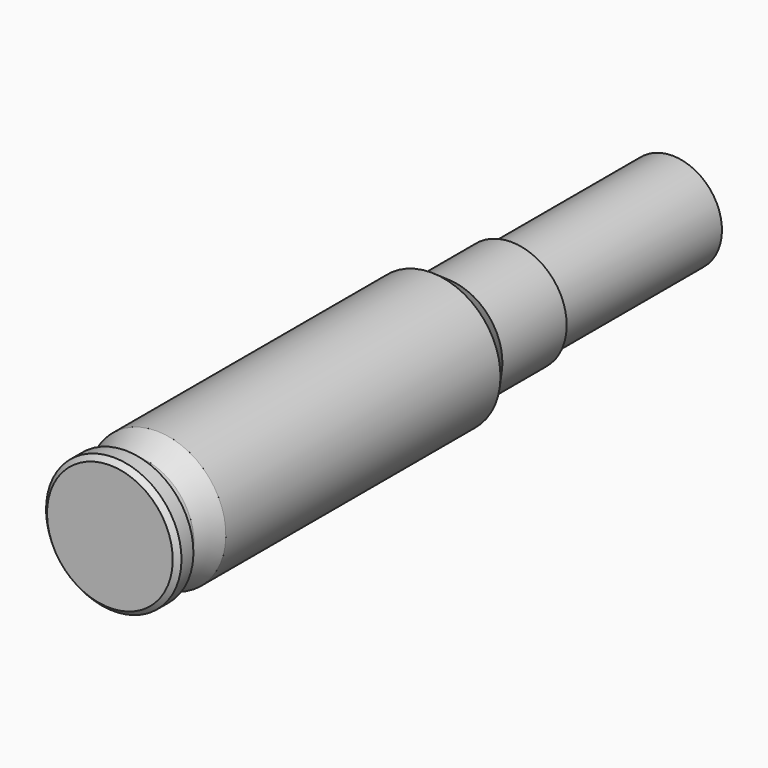
from build123d import *

# Parameters (mm, degrees)
F0_W   = 0.79
F0_H   = 3.3
F0_W_2 = 11.6
F0_H_2 = 2.85


with BuildPart() as f1:
    # F0 (on Right) → F1 (revolve)
    with BuildSketch(Plane.YZ):
        Polygon((0, 3.62), (0, 0), (0.28, 0), (1.14, 0), (1.14, 3.3), (1.14, 3.9), (0.28, 3.9), align=None)
        with Locations((1.535, 1.65)):
            Rectangle(F0_W, F0_H)
        Polygon((1.93, 3.3), (1.93, 0), (3.38, 0), (23.15, 0), (23.15, 3.975), (3.38, 3.975), align=None)
        Polygon((23.15, 3.975), (23.15, 0), (24.27, 0), (28.9, 0), (28.9, 2.85), (28.9, 3.19), (24.27, 3.19), align=None)
        with Locations((34.7, 1.425)):
            Rectangle(F0_W_2, F0_H_2)
    revolve(axis=Axis((0, 13.265, 0), (0, 1, 0)))


solid = f1.part
